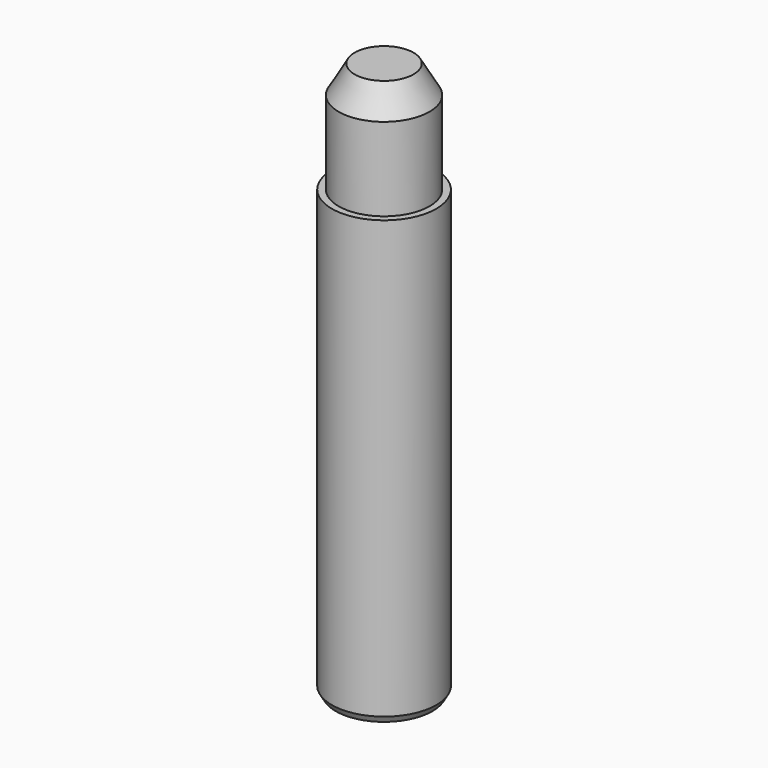
from build123d import *

# Parameters (mm, degrees)
F0_R     = 5.9817
F1_DEPTH = 25.4
F2_R     = 5.207
F3_DEPTH = 12.7
F4_SIZE2 = 1.8330871047
F4_SIZE  = 3.175
F5_SIZE2 = 0.4399409051
F5_SIZE  = 0.762
F7_D     = 5.1054
F7_DEPTH = 19.05
F7_TIP   = 1.5338169022


with BuildPart() as f1:
    # F0 (on Top) → F1 (new body, symmetric)
    with BuildSketch(Plane.XY):
        Circle(F0_R)
    extrude(amount=F1_DEPTH, both=True)

    # F2 (on face) → F3 (join)
    with BuildSketch(Plane.XY.offset(25.4)):
        Circle(F2_R)
    extrude(amount=F3_DEPTH)

    # F4
    f4_edges = [f1.edges().sort_by_distance(p)[0] for p in [
        (-5.207, 0, 38.1),
    ]]
    f4_side = f1.faces().sort_by_distance((-5.207, 0, 31.75))[0]
    chamfer(f4_edges, length=F4_SIZE, length2=F4_SIZE2, reference=f4_side)

    # F5
    f5_edges = [f1.edges().sort_by_distance(p)[0] for p in [
        (-5.9817, 0, -25.4),
    ]]
    f5_side = f1.faces().sort_by_distance((-5.9817, 0, 0))[0]
    chamfer(f5_edges, length=F5_SIZE, length2=F5_SIZE2, reference=f5_side)

    # F7
    with Locations(Plane(origin=(0, 0, -25.4), x_dir=(1, 0, 0), z_dir=(0, 0, -1))):
        with Locations((0, 0)):
            Hole(F7_D / 2, depth=F7_DEPTH)
            with Locations((0, 0, -(F7_DEPTH + F7_TIP / 2))):  # 118° drill point
                Cone(0, F7_D / 2, F7_TIP, mode=Mode.SUBTRACT)


solid = f1.part
